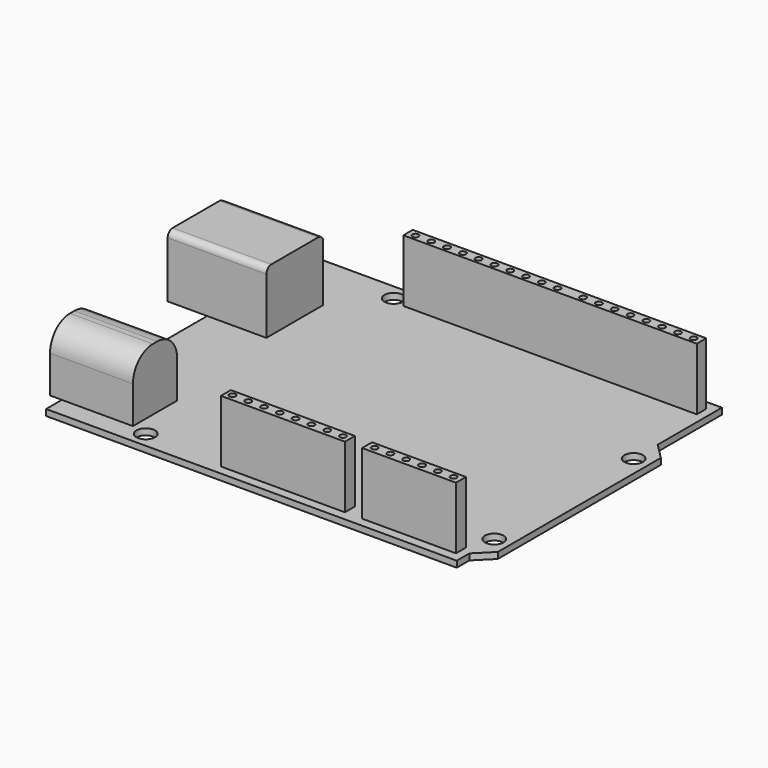
from build123d import *

# Parameters (mm, degrees)
F0_R     = 1.5
F0_W     = 19.9352111667
F0_H     = 2
F0_W_2   = 15.0901935995
F0_W_3   = 9.52
F0_H_2   = 11.43
F0_W_4   = 11.43
F0_H_3   = 8.89
F0_W_5   = 26.1933505535
F0_H_4   = 1.9
F0_R_2   = 0.5
F0_W_6   = 20.9950618446
F1_DEPTH = 1
F2_W     = 26.1933505535
F2_H     = 1.9
F2_R     = 0.5
F2_W_2   = 20.9950618446
F3_DEPTH = 10
F2_W_3   = 19.9352111667
F2_H_2   = 2
F2_W_4   = 15.0901935995
F2_W_5   = 6.35
F2_H_3   = 11.43
F2_W_6   = 9.52
F4_DEPTH = 10
F2_W_7   = 11.43
F2_H_4   = 8.89
F2_W_8   = 1.9
F5_DEPTH = 10
F6_R     = 1
F7_R     = 4


with BuildPart() as f1:
    # F0 (on Top) → F1 (new body)
    with BuildSketch(Plane.XY):
        Polygon((0, 3.17), (0, 0), (66.04, 0), (66.04, 2.54), (68.58, 5.08), (68.58, 37.85), (66.04, 40.39), (66.04, 53.3), (0, 53.3), (0, 43.81), (9.52, 43.81), (9.52, 32.38), (0, 32.38), (0, 12.06), (11.43, 12.06), (11.43, 3.17), align=None)
        with Locations((14, 2.54)):
            Circle(F0_R, mode=Mode.SUBTRACT)
        with Locations((36.881336011, 2.5)):
            Rectangle(F0_W, F0_H, mode=Mode.SUBTRACT)
        with Locations((57.1698267013, 2.5)):
            Rectangle(F0_W_2, F0_H, mode=Mode.SUBTRACT)
        with Locations((66.04, 7.532051314)):
            Circle(F0_R, mode=Mode.SUBTRACT)
        with Locations((15.3, 50.76)):
            Circle(F0_R, mode=Mode.SUBTRACT)
        with Locations((66.04, 35.56)):
            Circle(F0_R, mode=Mode.SUBTRACT)
        Polygon((43.719869107, 49.9), (17.5265185535, 49.9), (17.5265185535, 51.8), (43.719869107, 51.8), (64.7149309516, 51.8), (64.7149309516, 49.9), align=None, mode=Mode.SUBTRACT)
        with Locations((4.76, 38.095)):
            Rectangle(F0_W_3, F0_H_2)
        with Locations((5.715, 7.615)):
            Rectangle(F0_W_4, F0_H_3)
        with Locations((30.6231938303, 50.85)):
            Rectangle(F0_W_5, F0_H_4)
        with Locations((18.76, 50.8)):
            Circle(F0_R_2, mode=Mode.SUBTRACT)
        with Locations((21.3, 50.8)):
            Circle(F0_R_2, mode=Mode.SUBTRACT)
        with Locations((23.84, 50.8)):
            Circle(F0_R_2, mode=Mode.SUBTRACT)
        with Locations((26.38, 50.8)):
            Circle(F0_R_2, mode=Mode.SUBTRACT)
        with Locations((28.92, 50.8)):
            Circle(F0_R_2, mode=Mode.SUBTRACT)
        with Locations((31.46, 50.8)):
            Circle(F0_R_2, mode=Mode.SUBTRACT)
        with Locations((34, 50.8)):
            Circle(F0_R_2, mode=Mode.SUBTRACT)
        with Locations((36.54, 50.8)):
            Circle(F0_R_2, mode=Mode.SUBTRACT)
        with Locations((39.08, 50.8)):
            Circle(F0_R_2, mode=Mode.SUBTRACT)
        with Locations((41.62, 50.8)):
            Circle(F0_R_2, mode=Mode.SUBTRACT)
        with Locations((54.2174000293, 50.85)):
            Rectangle(F0_W_6, F0_H_4)
        with Locations((45.72, 50.8)):
            Circle(F0_R_2, mode=Mode.SUBTRACT)
        with Locations((48.26, 50.8)):
            Circle(F0_R_2, mode=Mode.SUBTRACT)
        with Locations((50.8, 50.8)):
            Circle(F0_R_2, mode=Mode.SUBTRACT)
        with Locations((53.34, 50.8)):
            Circle(F0_R_2, mode=Mode.SUBTRACT)
        with Locations((55.88, 50.8)):
            Circle(F0_R_2, mode=Mode.SUBTRACT)
        with Locations((58.42, 50.8)):
            Circle(F0_R_2, mode=Mode.SUBTRACT)
        with Locations((60.96, 50.8)):
            Circle(F0_R_2, mode=Mode.SUBTRACT)
        with Locations((63.5, 50.8)):
            Circle(F0_R_2, mode=Mode.SUBTRACT)
        with Locations((36.881336011, 2.5)):
            Rectangle(F0_W, F0_H)
        with Locations((27.94, 2.54)):
            Circle(F0_R_2, mode=Mode.SUBTRACT)
        with Locations((30.48, 2.54)):
            Circle(F0_R_2, mode=Mode.SUBTRACT)
        with Locations((33.02, 2.54)):
            Circle(F0_R_2, mode=Mode.SUBTRACT)
        with Locations((35.56, 2.54)):
            Circle(F0_R_2, mode=Mode.SUBTRACT)
        with Locations((38.1, 2.54)):
            Circle(F0_R_2, mode=Mode.SUBTRACT)
        with Locations((40.64, 2.54)):
            Circle(F0_R_2, mode=Mode.SUBTRACT)
        with Locations((43.18, 2.54)):
            Circle(F0_R_2, mode=Mode.SUBTRACT)
        with Locations((45.72, 2.54)):
            Circle(F0_R_2, mode=Mode.SUBTRACT)
        with Locations((57.1698267013, 2.5)):
            Rectangle(F0_W_2, F0_H)
        with Locations((50.8, 2.54)):
            Circle(F0_R_2, mode=Mode.SUBTRACT)
        with Locations((53.34, 2.54)):
            Circle(F0_R_2, mode=Mode.SUBTRACT)
        with Locations((55.88, 2.54)):
            Circle(F0_R_2, mode=Mode.SUBTRACT)
        with Locations((58.42, 2.54)):
            Circle(F0_R_2, mode=Mode.SUBTRACT)
        with Locations((60.96, 2.54)):
            Circle(F0_R_2, mode=Mode.SUBTRACT)
        with Locations((63.5, 2.54)):
            Circle(F0_R_2, mode=Mode.SUBTRACT)
    extrude(amount=F1_DEPTH)


with BuildPart() as f3:
    # F2 (on face) → F3 (new body)
    with BuildSketch(Plane.XY.offset(1)):
        with Locations((30.6231938303, 50.85)):
            Rectangle(F2_W, F2_H)
        with Locations((18.76, 50.8)):
            Circle(F2_R, mode=Mode.SUBTRACT)
        with Locations((21.3, 50.8)):
            Circle(F2_R, mode=Mode.SUBTRACT)
        with Locations((23.84, 50.8)):
            Circle(F2_R, mode=Mode.SUBTRACT)
        with Locations((26.38, 50.8)):
            Circle(F2_R, mode=Mode.SUBTRACT)
        with Locations((28.92, 50.8)):
            Circle(F2_R, mode=Mode.SUBTRACT)
        with Locations((31.46, 50.8)):
            Circle(F2_R, mode=Mode.SUBTRACT)
        with Locations((34, 50.8)):
            Circle(F2_R, mode=Mode.SUBTRACT)
        with Locations((36.54, 50.8)):
            Circle(F2_R, mode=Mode.SUBTRACT)
        with Locations((39.08, 50.8)):
            Circle(F2_R, mode=Mode.SUBTRACT)
        with Locations((41.62, 50.8)):
            Circle(F2_R, mode=Mode.SUBTRACT)
        with Locations((54.2174000293, 50.85)):
            Rectangle(F2_W_2, F2_H)
        with Locations((45.72, 50.8)):
            Circle(F2_R, mode=Mode.SUBTRACT)
        with Locations((48.26, 50.8)):
            Circle(F2_R, mode=Mode.SUBTRACT)
        with Locations((50.8, 50.8)):
            Circle(F2_R, mode=Mode.SUBTRACT)
        with Locations((53.34, 50.8)):
            Circle(F2_R, mode=Mode.SUBTRACT)
        with Locations((55.88, 50.8)):
            Circle(F2_R, mode=Mode.SUBTRACT)
        with Locations((58.42, 50.8)):
            Circle(F2_R, mode=Mode.SUBTRACT)
        with Locations((60.96, 50.8)):
            Circle(F2_R, mode=Mode.SUBTRACT)
        with Locations((63.5, 50.8)):
            Circle(F2_R, mode=Mode.SUBTRACT)
    extrude(amount=F3_DEPTH)


with BuildPart() as f3b:
    # F2 (on face) → F3, piece 2 (new body)
    with BuildSketch(Plane.XY.offset(1)):
        with Locations((36.881336011, 2.5)):
            Rectangle(F2_W_3, F2_H_2)
        with Locations((27.94, 2.54)):
            Circle(F2_R, mode=Mode.SUBTRACT)
        with Locations((30.48, 2.54)):
            Circle(F2_R, mode=Mode.SUBTRACT)
        with Locations((33.02, 2.54)):
            Circle(F2_R, mode=Mode.SUBTRACT)
        with Locations((35.56, 2.54)):
            Circle(F2_R, mode=Mode.SUBTRACT)
        with Locations((38.1, 2.54)):
            Circle(F2_R, mode=Mode.SUBTRACT)
        with Locations((40.64, 2.54)):
            Circle(F2_R, mode=Mode.SUBTRACT)
        with Locations((43.18, 2.54)):
            Circle(F2_R, mode=Mode.SUBTRACT)
        with Locations((45.72, 2.54)):
            Circle(F2_R, mode=Mode.SUBTRACT)
    extrude(amount=F3_DEPTH)


with BuildPart() as f3c:
    # F2 (on face) → F3, piece 3 (new body)
    with BuildSketch(Plane.XY.offset(1)):
        with Locations((57.1698267013, 2.5)):
            Rectangle(F2_W_4, F2_H_2)
        with Locations((50.8, 2.54)):
            Circle(F2_R, mode=Mode.SUBTRACT)
        with Locations((53.34, 2.54)):
            Circle(F2_R, mode=Mode.SUBTRACT)
        with Locations((55.88, 2.54)):
            Circle(F2_R, mode=Mode.SUBTRACT)
        with Locations((58.42, 2.54)):
            Circle(F2_R, mode=Mode.SUBTRACT)
        with Locations((60.96, 2.54)):
            Circle(F2_R, mode=Mode.SUBTRACT)
        with Locations((63.5, 2.54)):
            Circle(F2_R, mode=Mode.SUBTRACT)
    extrude(amount=F3_DEPTH)


with BuildPart() as f4:
    # F2 (on face) → F4 (new body)
    with BuildSketch(Plane.XY.offset(1)):
        with Locations((-3.175, 38.095)):
            Rectangle(F2_W_5, F2_H_3)
        with Locations((4.76, 38.095)):
            Rectangle(F2_W_6, F2_H_3)
    extrude(amount=F4_DEPTH)

    # F6
    f6_edges = [f4.edges().sort_by_distance(p)[0] for p in [
        (1.585, 32.38, 11),
        (1.585, 43.81, 11),
    ]]
    fillet(f6_edges, radius=F6_R)


with BuildPart() as f5:
    # F2 (on face) → F5 (new body)
    with BuildSketch(Plane.XY.offset(1)):
        with Locations((5.715, 7.615)):
            Rectangle(F2_W_7, F2_H_4)
        with Locations((-0.95, 7.615)):
            Rectangle(F2_W_8, F2_H_4)
    extrude(amount=F5_DEPTH)

    # F7
    f7_edges = [f5.edges().sort_by_distance(p)[0] for p in [
        (4.765, 3.17, 11),
        (4.765, 12.06, 11),
    ]]
    fillet(f7_edges, radius=F7_R)


solid = Compound([f1.part, f3.part, f3b.part, f3c.part, f4.part, f5.part])
